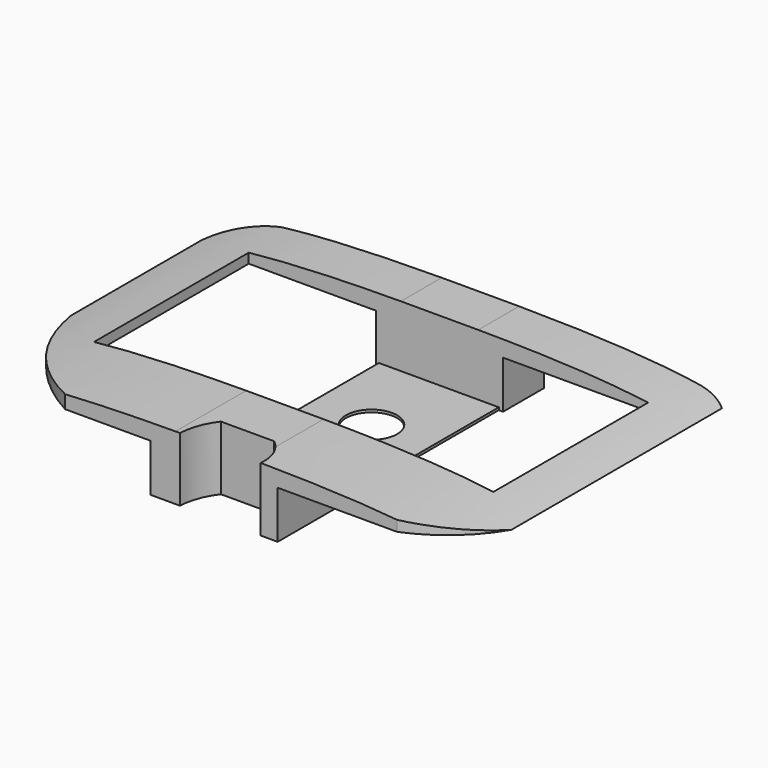
from build123d import *

# Parameters (mm, degrees)
F0_W     = 156.0007420911
F0_H     = 75.5530648724
F1_DEPTH = 25
F2_W     = 46.8510948122
F2_H     = 75.7792815566
F3_DEPTH = 1
F5_D     = 20
F7_DEPTH = 255
F8_W     = 83.6402047426
F8_H     = 32.7123841271
F9_DEPTH = 100


with BuildPart() as f1:
    # F0 (on Top) → F1 (new body)
    with BuildSketch(Plane.XY):
        with BuildLine():
            Line((84.4286978245, 53.1719140444), (-77.1694108844, 53.1719140444))
            ThreePointArc((-77.1694108844, 53.1719140444), (-89.2789735535, 46.929714102), (-94.6344383061, 34.4027206302))
            Line((-94.6344383061, 34.4027206302), (-94.6344383061, -28.4059178084))
            ThreePointArc((-94.6344383061, -28.4059178084), (-81.8076298673, -56.6572698383), (-58.2321323454, -76.8280859556))
            Line((-58.2321323454, -76.8280859556), (-13.4139051661, -76.8280859556))
            ThreePointArc((-13.4139051661, -76.8280859556), (-11.9224470417, -69.5865469722), (-8.3639649674, -63.105687499))
            Line((-8.3639649674, -63.105687499), (12.4670406803, -63.105687499))
            ThreePointArc((12.4670406803, -63.105687499), (17.0740541232, -69.2355741117), (18.1482266635, -76.8280859556))
            Line((18.1482266635, -76.8280859556), (71.4882239699, -76.8280859556))
            ThreePointArc((71.4882239699, -76.8280859556), (95.5316118327, -57.587637734), (105.3655616939, -28.4059178084))
            Line((105.3655616939, -28.4059178084), (105.3655616939, 35.0339636207))
            ThreePointArc((105.3655616939, 35.0339636207), (99.0954169594, 47.7024097941), (86.0612784494, 53.1719140444))
            Line((86.0612784494, 53.1719140444), (84.4286978245, 53.1719140444))
        make_face()
        with Locations((3.4495101505, -4.5515570394)):
            Rectangle(F0_W, F0_H, mode=Mode.SUBTRACT)
    extrude(amount=F1_DEPTH)

    # F2 (on Top) → F3 (join)
    with BuildSketch(Plane.XY):
        with Locations((-0.2943016589, -4.5300647616)):
            Rectangle(F2_W, F2_H)
    extrude(amount=F3_DEPTH)

    # F5 (through all)
    with Locations(Plane(origin=(0, 0, 0), x_dir=(1, 0, 0), z_dir=(0, 0, -1))):
        with Locations((0, 0)):
            Hole(F5_D / 2)

    # F6 (on face) → F7 (cut)
    with BuildSketch(Plane(origin=(0, 53.1719140444, 0), x_dir=(-1, 0, 0), z_dir=(0, 1, 0))):
        with BuildLine():
            Line((20.4541144112, 28.5491645336), (0, 25))
            add(Edge.make_bspline(
                [(0, 25), (26.840212886, 25.1204533791), (71.8387888182, 24.3904514867), (100.6753190799, 18.4198146688), (107.8883484006, 15.5325448141)],
                knots=[0, 0, 0, 0, 0.5988321729, 1, 1, 1, 1], degree=3))
            Line((107.8883484006, 15.5325448141), (107.8883484006, 28.5491645336))
            Line((107.8883484006, 28.5491645336), (20.4541144112, 28.5491645336))
        make_face()
        with BuildLine():
            add(Edge.make_bspline(
                [(0, 25), (-26.840212886, 25.1204533791), (-71.8387888182, 24.3904514867), (-100.6753190799, 18.4198146688), (-107.8883484006, 15.5325448141)],
                knots=[0, 0, 0, 0, 0.5988321729, 1, 1, 1, 1], degree=3))
            Line((0, 25), (-20.4541144112, 28.5491645336))
            Line((-20.4541144112, 28.5491645336), (-107.8883484006, 28.5491645336))
            Line((-107.8883484006, 28.5491645336), (-107.8883484006, 15.5325448141))
        make_face()
    extrude(amount=-F7_DEPTH, mode=Mode.SUBTRACT)

    # F8 (on Front) → F9 (cut, symmetric)
    with BuildSketch(Plane.XZ):
        with Locations((-66.6241189465, 2.2455067374)):
            Rectangle(F8_W, F8_H)
        with Locations((66.6241189465, 2.2455067374)):
            Rectangle(F8_W, F8_H)
    extrude(amount=F9_DEPTH, both=True, mode=Mode.SUBTRACT)


solid = f1.part
